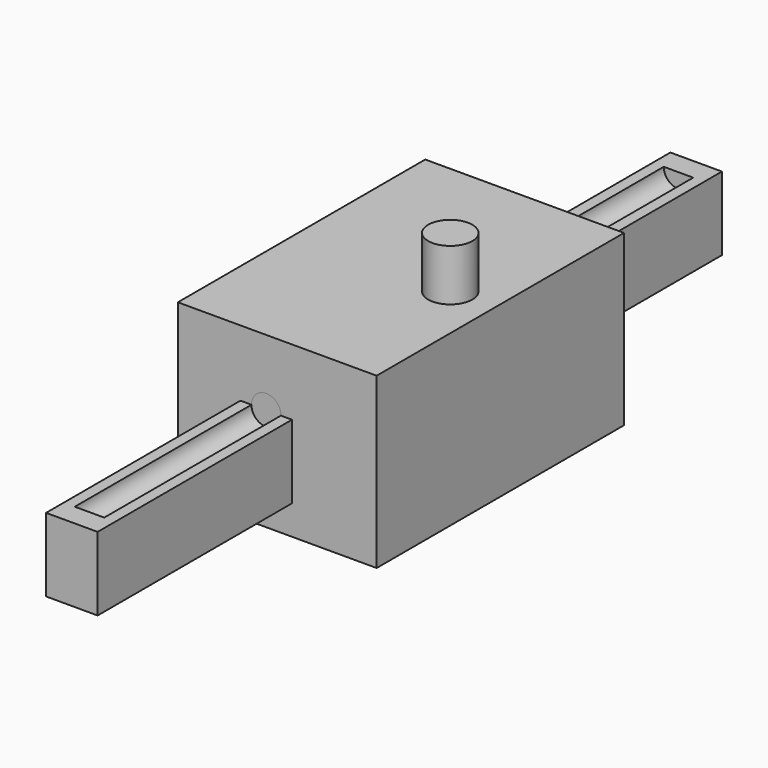
from build123d import *

# Parameters (mm, degrees)
CYLINDER004_R          = 0.7
CYLINDER004_DEPTH      = 13
CYLINDER004_ROLL_ANGLE = 90
BOX_W                  = 3.8
BOX_H                  = 10
BOX_DEPTH              = 10
CYLINDER_R             = 2.8
CYLINDER_DEPTH         = 8
CYLINDER002_R          = 1.23
CYLINDER002_DEPTH      = 14
CYLINDER003_R          = 3
CYLINDER003_DEPTH      = 10
CYLINDER001_R          = 5
CYLINDER001_DEPTH      = 10
CYLINDER005_R          = 5
CYLINDER005_DEPTH      = 4
BOX001_W               = 3.8
BOX001_H               = 10
BOX001_DEPTH           = 10
CYLINDER006_R          = 2.8
CYLINDER006_DEPTH      = 8
CYLINDER007_R          = 3
CYLINDER007_DEPTH      = 11
BOX002_W               = 27
BOX002_H               = 42
BOX002_DEPTH           = 23
CYLINDER009_R          = 2
CYLINDER009_DEPTH      = 100
CYLINDER009_ROLL_ANGLE = 90
CYLINDER008_R          = 2
CYLINDER008_DEPTH      = 100
CYLINDER008_ROLL_ANGLE = 90
BOX003_W               = 7
BOX003_H               = 106
BOX003_DEPTH           = 10
CYLINDER010_R          = 2
CYLINDER010_DEPTH      = 40
CYLINDER010_ROLL_ANGLE = 90
CYLINDER011_R          = 2
CYLINDER011_DEPTH      = 40
CYLINDER011_ROLL_ANGLE = 90


with BuildPart() as cylinder004:
    # Cylinder004 → Cylinder004 (new body)
    with BuildSketch(Plane.XY):
        Circle(CYLINDER004_R)
    extrude(amount=CYLINDER004_DEPTH)


with BuildPart() as cylinder004_1:
    # Cylinder004 roll: moved
    add(cylinder004.part.rotate(Axis((0, 0, 0), (1, 0, 0)), CYLINDER004_ROLL_ANGLE))


with BuildPart() as cylinder004_2:
    # Cylinder004 placement: moved
    add(cylinder004_1.part.moved(Location((0, 7, 6))))


with BuildPart() as cube:
    # Box → Box (new body)
    with BuildSketch(Plane(origin=(-1.9, -5, -1), x_dir=(1, 0, 0), z_dir=(0, 0, 1))):
        with Locations((1.9, 5)):
            Rectangle(BOX_W, BOX_H)
    extrude(amount=BOX_DEPTH)


with BuildPart() as common:
    # Cylinder → Cylinder (new body)
    with BuildSketch(Plane.XY):
        Circle(CYLINDER_R)
    extrude(amount=CYLINDER_DEPTH)

    # Common: intersect Cube
    add(cube.part, mode=Mode.INTERSECT)


with BuildPart() as common_1:
    # Common placement: moved
    add(common.part.moved(Location((0, 0, -4))))


with BuildPart() as cylinder002:
    # Cylinder002 → Cylinder002 (new body)
    with BuildSketch(Plane.XY.offset(-2)):
        Circle(CYLINDER002_R)
    extrude(amount=CYLINDER002_DEPTH)


with BuildPart() as cylinder003:
    # Cylinder003 → Cylinder003 (new body)
    with BuildSketch(Plane.XY.offset(1)):
        Circle(CYLINDER003_R)
    extrude(amount=CYLINDER003_DEPTH)


with BuildPart() as drive_winder:
    # Cylinder001 → Cylinder001 (new body)
    with BuildSketch(Plane.XY):
        Circle(CYLINDER001_R)
    extrude(amount=CYLINDER001_DEPTH)

    # Fusion: union Cylinder003
    add(cylinder003.part)

    # Cut: cut Cylinder002
    add(cylinder002.part, mode=Mode.SUBTRACT)

    # Cut001: cut Common
    add(common_1.part, mode=Mode.SUBTRACT)

    # Cut002: cut Cylinder004
    add(cylinder004_2.part, mode=Mode.SUBTRACT)


with BuildPart() as cylinder005:
    # Cylinder005 → Cylinder005 (new body)
    with BuildSketch(Plane.XY.offset(11)):
        Circle(CYLINDER005_R)
    extrude(amount=CYLINDER005_DEPTH)


with BuildPart() as cube001:
    # Box001 → Box001 (new body)
    with BuildSketch(Plane(origin=(-1.9, -5, -1), x_dir=(1, 0, 0), z_dir=(0, 0, 1))):
        with Locations((1.9, 5)):
            Rectangle(BOX001_W, BOX001_H)
    extrude(amount=BOX001_DEPTH)


with BuildPart() as common001:
    # Cylinder006 → Cylinder006 (new body)
    with BuildSketch(Plane.XY):
        Circle(CYLINDER006_R)
    extrude(amount=CYLINDER006_DEPTH)

    # Common001: intersect Cube001
    add(cube001.part, mode=Mode.INTERSECT)


with BuildPart() as common001_1:
    # Common001 placement: moved
    add(common001.part.moved(Location((0, 0, -4))))


with BuildPart() as cylinder007:
    # Cylinder007 → Cylinder007 (new body)
    with BuildSketch(Plane.XY.offset(15)):
        Circle(CYLINDER007_R)
    extrude(amount=CYLINDER007_DEPTH)


with BuildPart() as cube002:
    # Box002 → Box002 (new body)
    with BuildSketch(Plane(origin=(-21, -20, -4), x_dir=(1, 0, 0), z_dir=(0, 0, 1))):
        with Locations((13.5, 21)):
            Rectangle(BOX002_W, BOX002_H)
    extrude(amount=BOX002_DEPTH)


with BuildPart() as cylinder009:
    # Cylinder009 → Cylinder009 (new body)
    with BuildSketch(Plane.XY):
        Circle(CYLINDER009_R)
    extrude(amount=CYLINDER009_DEPTH)


with BuildPart() as cylinder009_1:
    # Cylinder009 roll: moved
    add(cylinder009.part.rotate(Axis((0, 0, 0), (1, 0, 0)), CYLINDER009_ROLL_ANGLE))


with BuildPart() as cylinder009_2:
    # Cylinder009 placement: moved
    add(cylinder009_1.part.moved(Location((-9, 50, 10))))


with BuildPart() as cylinder008:
    # Cylinder008 → Cylinder008 (new body)
    with BuildSketch(Plane.XY):
        Circle(CYLINDER008_R)
    extrude(amount=CYLINDER008_DEPTH)


with BuildPart() as cylinder008_1:
    # Cylinder008 roll: moved
    add(cylinder008.part.rotate(Axis((0, 0, 0), (1, 0, 0)), CYLINDER008_ROLL_ANGLE))


with BuildPart() as cylinder008_2:
    # Cylinder008 placement: moved
    add(cylinder008_1.part.moved(Location((-9, 50, 0))))


with BuildPart() as cut004:
    # Box003 → Box003 (new body)
    with BuildSketch(Plane(origin=(-12.5, -53, 0), x_dir=(1, 0, 0), z_dir=(0, 0, 1))):
        with Locations((3.5, 53)):
            Rectangle(BOX003_W, BOX003_H)
    extrude(amount=BOX003_DEPTH)

    # Cut003: cut Cylinder008
    add(cylinder008_2.part, mode=Mode.SUBTRACT)

    # Cut004: cut Cylinder009
    add(cylinder009_2.part, mode=Mode.SUBTRACT)


with BuildPart() as cylinder010:
    # Cylinder010 → Cylinder010 (new body)
    with BuildSketch(Plane.XY):
        Circle(CYLINDER010_R)
    extrude(amount=CYLINDER010_DEPTH)


with BuildPart() as cylinder010_1:
    # Cylinder010 roll: moved
    add(cylinder010.part.rotate(Axis((0, 0, 0), (1, 0, 0)), CYLINDER010_ROLL_ANGLE))


with BuildPart() as cylinder010_2:
    # Cylinder010 placement: moved
    add(cylinder010_1.part.moved(Location((-9, 20, 0))))


with BuildPart() as cylinder011:
    # Cylinder011 → Cylinder011 (new body)
    with BuildSketch(Plane.XY):
        Circle(CYLINDER011_R)
    extrude(amount=CYLINDER011_DEPTH)


with BuildPart() as cylinder011_1:
    # Cylinder011 roll: moved
    add(cylinder011.part.rotate(Axis((0, 0, 0), (1, 0, 0)), CYLINDER011_ROLL_ANGLE))


with BuildPart() as cylinder011_2:
    # Cylinder011 placement: moved
    add(cylinder011_1.part.moved(Location((-9, 20, 10))))


solid = Compound([drive_winder.part, cylinder005.part, common001_1.part, cylinder007.part, cube002.part, cut004.part, cylinder010_2.part, cylinder011_2.part])
